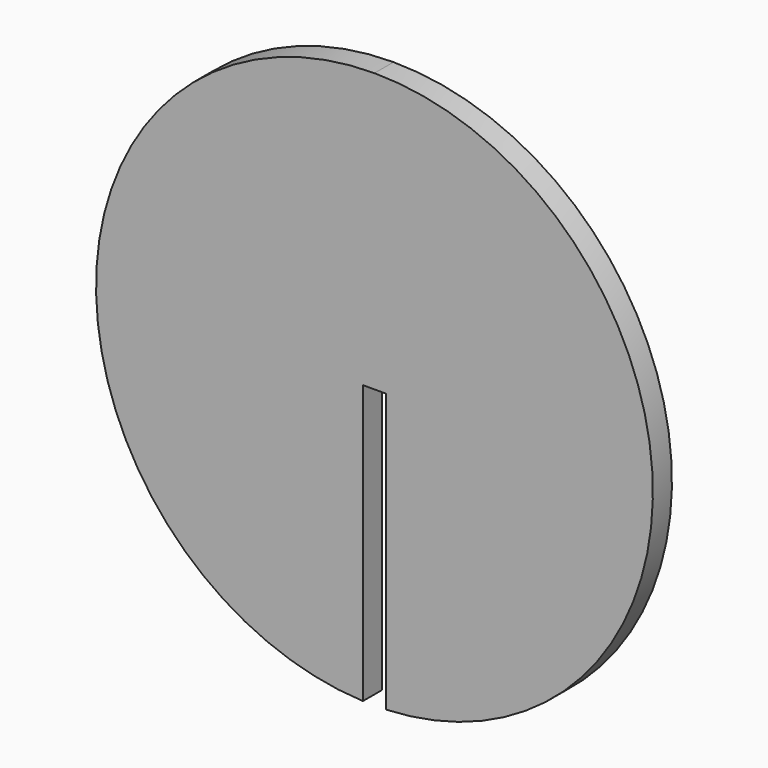
from build123d import *

# Parameters (mm, degrees)
F1_DEPTH = 3


with BuildPart() as f1:
    # F0 (on Front) → F1 (new body)
    with BuildSketch(Plane.XZ):
        with BuildLine():
            Line((1.45, 0), (1.45, -34.969951))
            ThreePointArc((1.45, -34.969951), (34.992487, 0.725156), (0, 35))
            ThreePointArc((0, 35), (-34.992487, 0.725156), (-1.45, -34.969951))
            Line((-1.45, -34.969951), (-1.45, 0))
            Line((-1.45, 0), (0, 0))
            Line((0, 0), (1.45, 0))
        make_face()
    extrude(amount=F1_DEPTH)


solid = f1.part
